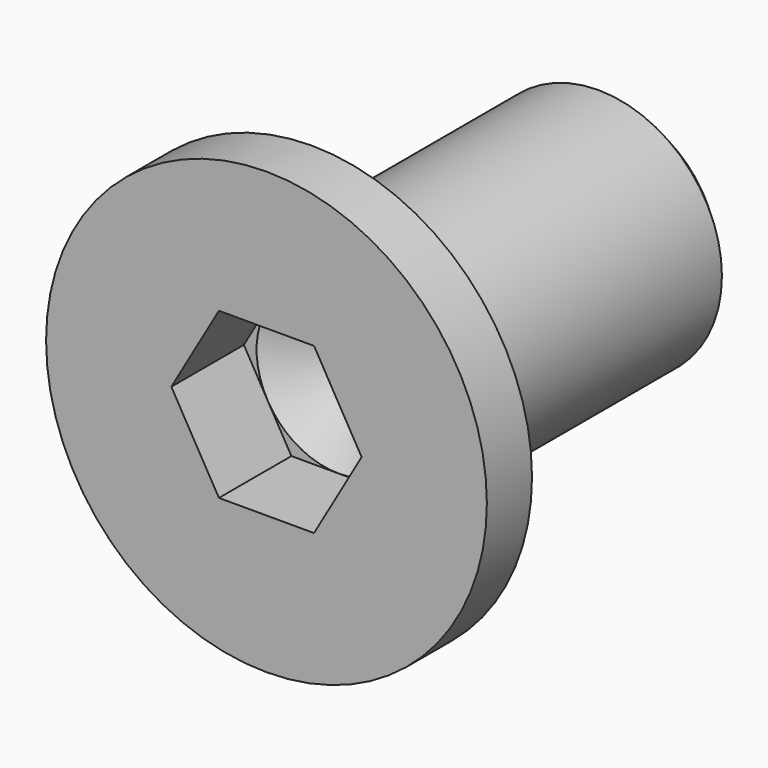
from build123d import *

# Parameters (mm, degrees)
F0_R      = 2.675
F1_DEPTH  = 0.685
F1_FACE_R = 2.675
F3_R      = 1.5
F5_DEPTH  = 3.86
F7_R      = 1.2195
F5_FACE_R = 1.5
F9_DEPTH  = 1.1
F11_R     = 1


with BuildPart() as f1:
    # F0 (on Front) → F1 (new body)
    with BuildSketch(Plane.XZ):
        Circle(F0_R)
        Polygon((-1.1547005384, 0), (-0.5773502692, 1), (0.5773502692, 1), (1.1547005384, 0), (0.5773502692, -1), (-0.5773502692, -1), align=None, mode=Mode.SUBTRACT)
        Polygon((0.5773502692, 1), (-0.5773502692, 1), (-1.1547005384, 0), (-0.5773502692, -1), (0.5773502692, -1), (1.1547005384, 0), align=None)
    extrude(amount=-F1_DEPTH)

    # F1_face (on face) → F4 section 0
    with BuildSketch(Plane(origin=(0, 0.685, 0), x_dir=(1, 0, 0), z_dir=(0, 1, 0))):
        Circle(F1_FACE_R)
    # F3 (on offset) → F4 section 1
    with BuildSketch(Plane.XZ.offset(-1.175)):
        Circle(F3_R)
    loft()

    # F5 (add): a face of the model
    f5_faces = [f1.faces().sort_by_distance(p)[0] for p in [
        (0, 1.175, 0),
    ]]
    extrude(f5_faces, amount=F5_DEPTH)

    # F7 (on offset) → F8 section 0
    with BuildSketch(Plane(origin=(0, 5.315, 0), x_dir=(-1, 0, 0), z_dir=(0, 1, 0))):
        Circle(F7_R)
    # F5_face (on face) → F8 section 1
    with BuildSketch(Plane(origin=(0, 5.035, 0), x_dir=(-1, 0, 0), z_dir=(0, 1, 0))):
        Circle(F5_FACE_R)
    loft()

    # F0 (on Front) → F9 (cut)
    with BuildSketch(Plane.XZ):
        Polygon((0.5773502692, 1), (-0.5773502692, 1), (-1.1547005384, 0), (-0.5773502692, -1), (0.5773502692, -1), (1.1547005384, 0), align=None)
    extrude(amount=-F9_DEPTH, mode=Mode.SUBTRACT)

    # F11 (on offset) → F14 section 0
    with BuildSketch(Plane.XZ.offset(-1.1), mode=Mode.PRIVATE) as f14_s0:
        Circle(F11_R)
    loft([f14_s0.sketch, Vertex(0, 1.677, 0)], mode=Mode.SUBTRACT)


solid = f1.part
